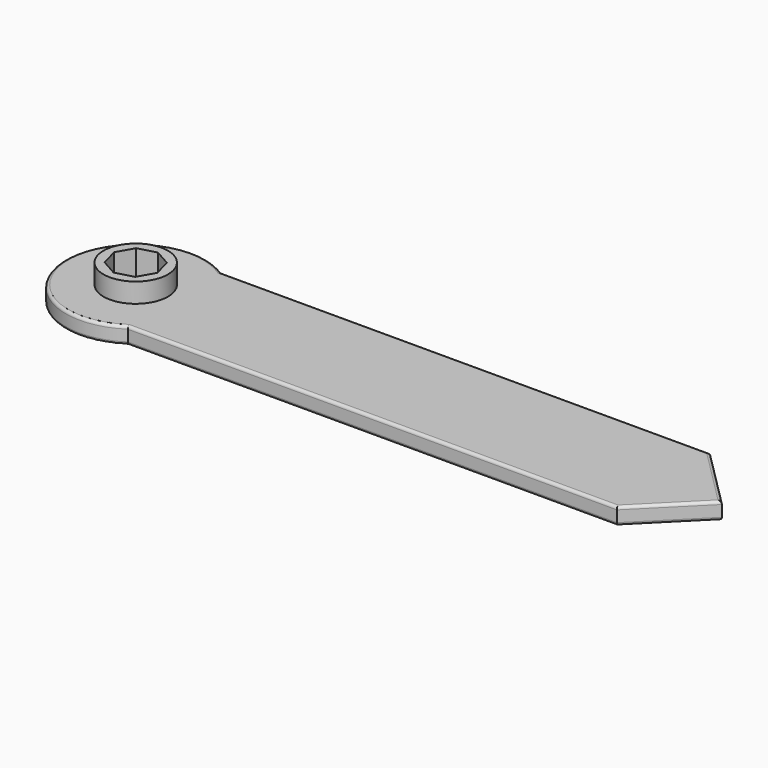
from build123d import *

# Parameters (mm, degrees)
F0_R     = 3.45
F1_DEPTH = 1.8
F2_DEPTH = 3.9
F3_R     = 0.3


with BuildPart() as f1:
    # F0 (on Top) → F1 (new body)
    with BuildSketch(Plane.XY):
        with BuildLine():
            Line((56.55, 6.25), (4.145781, 6.25))
            ThreePointArc((4.145781, 6.25), (-7.5, 0), (4.145781, -6.25))
            Line((4.145781, -6.25), (56.55, -6.25))
            Line((56.55, -6.25), (62.8, 0))
            Line((62.8, 0), (56.55, 6.25))
        make_face()
        Circle(F0_R, mode=Mode.SUBTRACT)
    extrude(amount=F1_DEPTH)

    # F0 (on Top) → F2 (join)
    with BuildSketch(Plane.XY):
        Circle(F0_R)
        Polygon((2.580316, -0.319324), (1.598763, -2.050355), (-0.319324, -2.580316), (-2.050355, -1.598763), (-2.580316, 0.319324), (-1.598763, 2.050355), (0.319324, 2.580316), (2.050355, 1.598763), align=None, mode=Mode.SUBTRACT)
    extrude(amount=F2_DEPTH)

    # F3
    f3_edges = [f1.edges().sort_by_distance(p)[0] for p in [
        (-7.5, 0, 1.8),
        (30.34789, 6.25, 1.8),
        (30.34789, -6.25, 1.8),
        (59.675, -3.125, 1.8),
        (59.675, 3.125, 1.8),
        (-7.5, 0, 0),
        (30.34789, -6.25, 0),
        (59.675, 3.125, 0),
        (59.675, -3.125, 0),
        (30.34789, 6.25, 0),
    ]]
    fillet(f3_edges, radius=F3_R)


solid = f1.part
